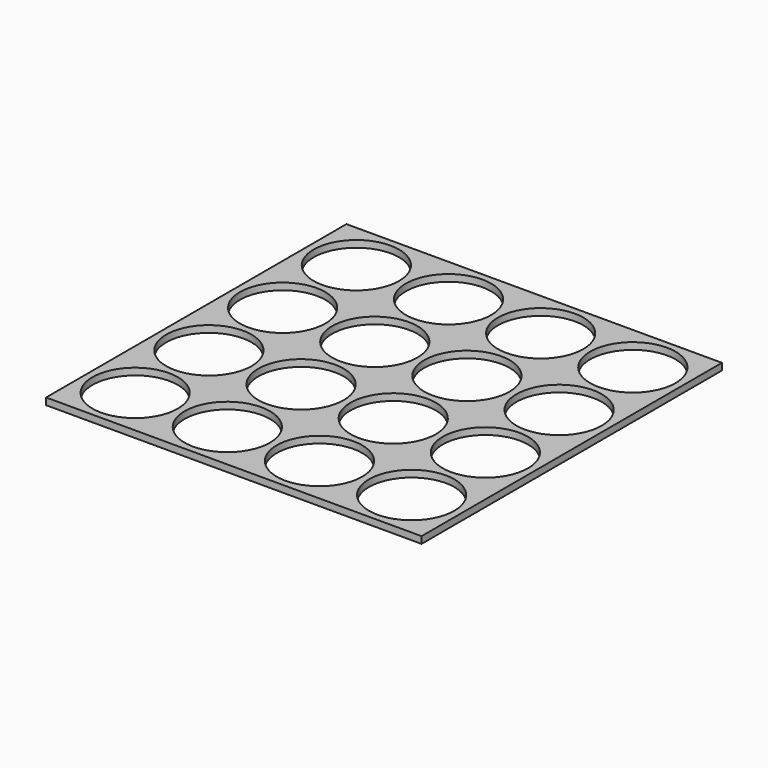
from build123d import *

# Parameters (mm, degrees)
SKETCH_W  = 110
SKETCH_H  = 110
SKETCH_R  = 12.5
PAD_DEPTH = 2


with BuildPart() as part:
    # Sketch → Pad (new body)
    with BuildSketch(Plane.XY):
        Rectangle(SKETCH_W, SKETCH_H)
        with Locations((-40.5, 40.5)):
            Circle(SKETCH_R, mode=Mode.SUBTRACT)
        with Locations((-13.5, 40.5)):
            Circle(SKETCH_R, mode=Mode.SUBTRACT)
        with Locations((13.5, 40.5)):
            Circle(SKETCH_R, mode=Mode.SUBTRACT)
        with Locations((40.5, 40.5)):
            Circle(SKETCH_R, mode=Mode.SUBTRACT)
        with Locations((-40.5, 13.5)):
            Circle(SKETCH_R, mode=Mode.SUBTRACT)
        with Locations((-13.5, 13.5)):
            Circle(SKETCH_R, mode=Mode.SUBTRACT)
        with Locations((13.5, 13.5)):
            Circle(SKETCH_R, mode=Mode.SUBTRACT)
        with Locations((40.5, 13.5)):
            Circle(SKETCH_R, mode=Mode.SUBTRACT)
        with Locations((-40.5, -13.5)):
            Circle(SKETCH_R, mode=Mode.SUBTRACT)
        with Locations((-13.5, -13.5)):
            Circle(SKETCH_R, mode=Mode.SUBTRACT)
        with Locations((13.5, -13.5)):
            Circle(SKETCH_R, mode=Mode.SUBTRACT)
        with Locations((40.5, -13.5)):
            Circle(SKETCH_R, mode=Mode.SUBTRACT)
        with Locations((-40.5, -40.5)):
            Circle(SKETCH_R, mode=Mode.SUBTRACT)
        with Locations((-13.5, -40.5)):
            Circle(SKETCH_R, mode=Mode.SUBTRACT)
        with Locations((13.5, -40.5)):
            Circle(SKETCH_R, mode=Mode.SUBTRACT)
        with Locations((40.5, -40.5)):
            Circle(SKETCH_R, mode=Mode.SUBTRACT)
    extrude(amount=PAD_DEPTH)


solid = part.part
